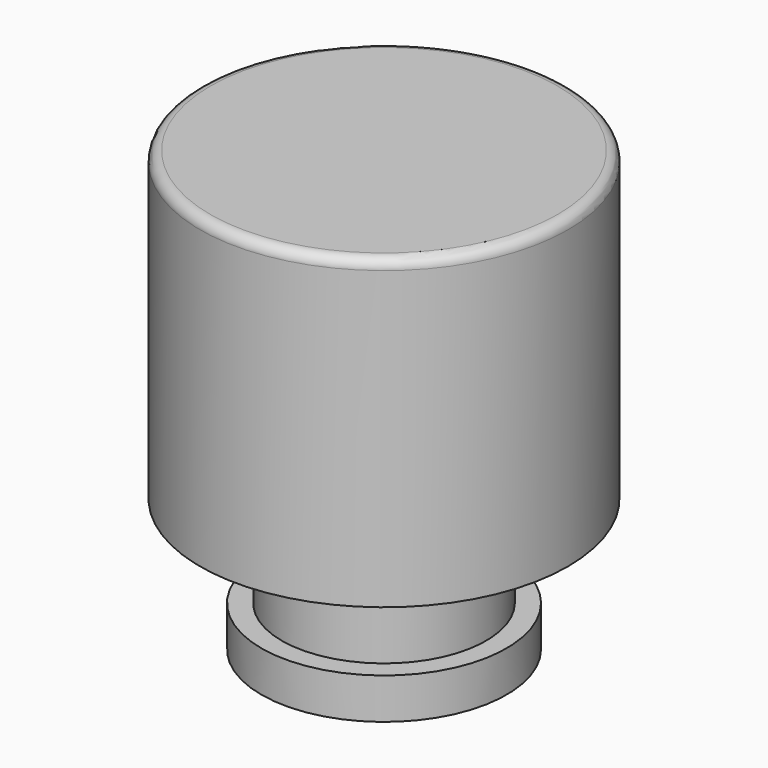
from build123d import *

# Parameters (mm, degrees)
F2_R     = 3.55
F3_DEPTH = 20.5
F5_DEPTH = 9
F6_R     = 0.5
F7_R     = 1.2
F8_DEPTH = 25


with BuildPart() as f1:
    # F0 (on Front) → F1 (revolve)
    with BuildSketch(Plane.XZ):
        Polygon((-6, 0), (0, 0), (0, 21.5), (-9, 21.5), (-9, 6.5), (-5, 6.5), (-5, 2), (-6, 2), align=None)
    revolve(axis=Axis((0, 0, -3.667768), (0, 0, -1)))

    # F2 (on face) → F3 (cut)
    with BuildSketch(Plane(origin=(0, 0, 0), x_dir=(1, 0, 0), z_dir=(0, 0, -1))):
        Circle(F2_R)
    extrude(amount=-F3_DEPTH, mode=Mode.SUBTRACT)

    # F4 (on face) → F5 (join)
    with BuildSketch(Plane(origin=(0, 0, 20.5), x_dir=(1, 0, 0), z_dir=(0, 0, -1))):
        with BuildLine():
            Line((3.207453, -1.521429), (-3.207453, -1.521429))
            ThreePointArc((-3.207453, -1.521429), (0, -3.55), (3.207453, -1.521429))
        make_face()
    extrude(amount=F5_DEPTH)

    # F6
    f6_edges = [f1.edges().sort_by_distance(p)[0] for p in [
        (9, 0, 21.5),
    ]]
    fillet(f6_edges, radius=F6_R)

    # F7 (on face) → F8 (cut)
    with BuildSketch(Plane.XZ.offset(-1.521429)):
        with Locations((0, 14.5)):
            Circle(F7_R)
    extrude(amount=-F8_DEPTH, mode=Mode.SUBTRACT)


solid = f1.part
